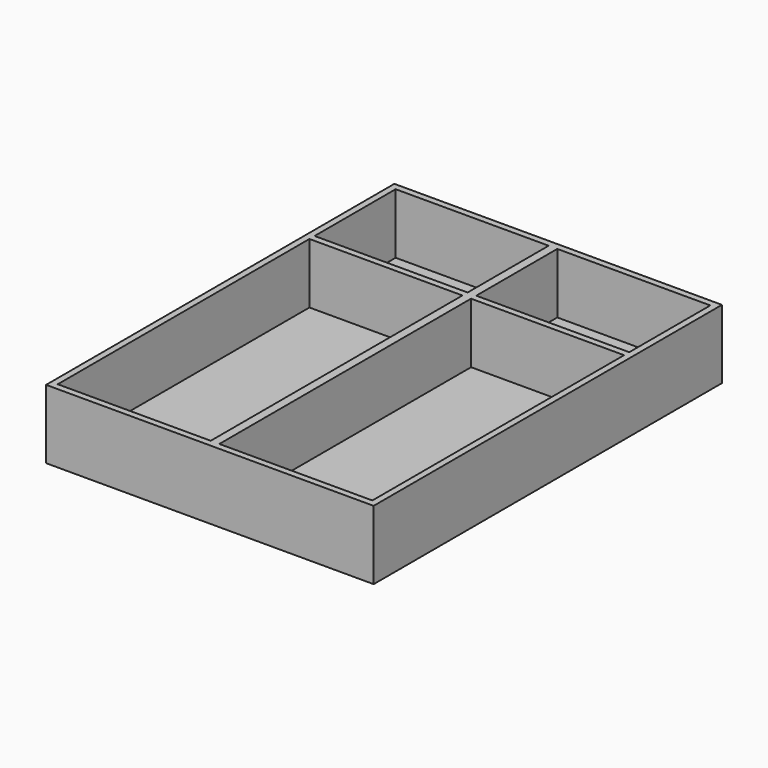
from build123d import *

# Parameters (mm, degrees)
F1_W     = 73
F1_H     = 73
F2_DEPTH = 16
F3_DEPTH = 2
F4_W     = 2
F4_H     = 73
F5_DEPTH = 14
F0_W     = 35.5
F0_H     = 23.5
F6_DEPTH = 2
F7_DEPTH = 2
F8_DEPTH = 16


with BuildPart() as f2:
    # F1 (on face) → F2 (new body)
    with BuildSketch(Plane.XY):
        Polygon((-38, 38), (-38, -38), (38, -38), (38, 38), (36.5, 38), (1, 38), (-1, 38), (-36.5, 38), align=None)
        Rectangle(F1_W, F1_H, mode=Mode.SUBTRACT)
    extrude(amount=F2_DEPTH)

    # F0 (on Top) → F3 (join)
    with BuildSketch(Plane.XY):
        Polygon((-38, -38), (38, -38), (38, 38), (36.5, 38), (1, 38), (-1, 38), (-36.5, 38), (-38, 38), align=None)
    extrude(amount=F3_DEPTH)

    # F4 (on face) → F5 (join)
    with BuildSketch(Plane.XY.offset(2)):
        Rectangle(F4_W, F4_H)
    extrude(amount=F5_DEPTH)

    # F0 (on Top) → F6 (join)
    with BuildSketch(Plane.XY):
        with Locations((-18.75, 49.75)):
            Rectangle(F0_W, F0_H)
    extrude(amount=F6_DEPTH)

    # F0 (on Top) → F7 (join)
    with BuildSketch(Plane.XY):
        with Locations((18.75, 49.75)):
            Rectangle(F0_W, F0_H)
    extrude(amount=F7_DEPTH)

    # F0 (on Top) → F8 (join)
    with BuildSketch(Plane.XY):
        Polygon((36.5, 38), (38, 38), (38, 63), (-38, 63), (-38, 38), (-36.5, 38), (-36.5, 61.5), (-1, 61.5), (-1, 38), (1, 38), (1, 61.5), (36.5, 61.5), align=None)
    extrude(amount=F8_DEPTH)


solid = f2.part
